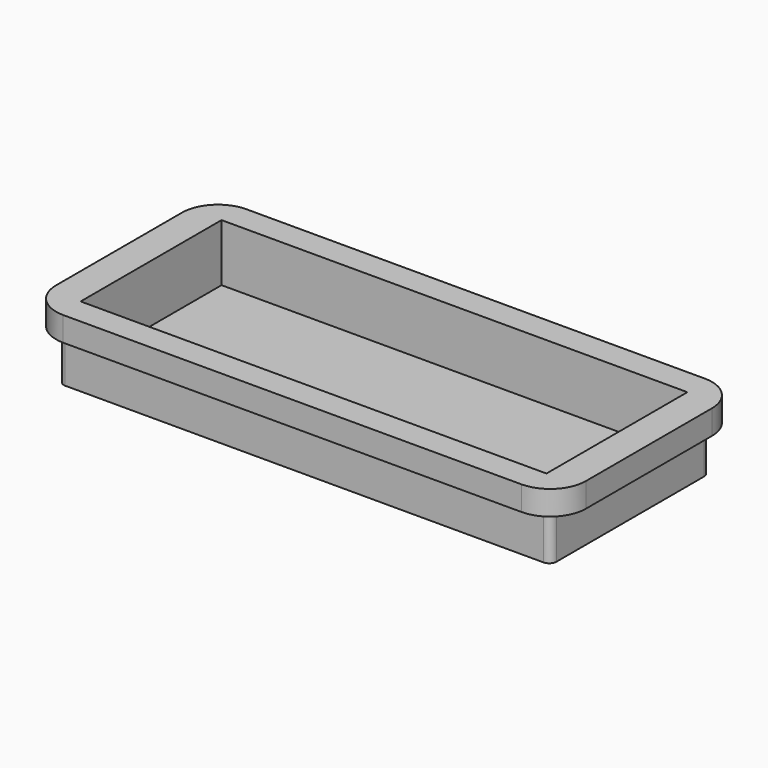
from build123d import *

# Parameters (mm, degrees)
F0_W     = 74
F0_H     = 32
F1_DEPTH = 3.4
F2_W     = 68.8
F2_H     = 27.8
F3_DEPTH = 10
F4_W     = 65.06
F4_H     = 24.6
F5_DEPTH = 8
F6_R     = 5
F7_R     = 1.6
F8_DEPTH = 10.001
F9_R     = 1


with BuildPart() as f1:
    # F0 (on Top) → F1 (new body)
    with BuildSketch(Plane.XY):
        Rectangle(F0_W, F0_H)
    extrude(amount=F1_DEPTH)

    # F2 (on face) → F3 (join)
    with BuildSketch(Plane.XY.offset(3.4)):
        Rectangle(F2_W, F2_H)
    extrude(amount=-F3_DEPTH)

    # F4 (on face) → F5 (cut)
    with BuildSketch(Plane.XY.offset(3.4)):
        Rectangle(F4_W, F4_H)
    extrude(amount=-F5_DEPTH, mode=Mode.SUBTRACT)

    # F6
    f6_edges = [f1.edges().sort_by_distance(p)[0] for p in [
        (-37, -16, 1.7),
        (37, -16, 1.7),
        (37, 16, 1.7),
        (-37, 16, 1.7),
    ]]
    fillet(f6_edges, radius=F6_R)

    # F7 (on face) → F8 (cut, through all)
    with BuildSketch(Plane.XY.offset(3.4)):
        with Locations((-30.004807, -10.013314)):
            Circle(F7_R)
    extrude(amount=-F8_DEPTH, mode=Mode.SUBTRACT)

    # F9
    f9_edges = [f1.edges().sort_by_distance(p)[0] for p in [
        (-34.4, 13.9, -3.3),
        (-34.4, -13.9, -3.3),
        (34.4, -13.9, -3.3),
        (34.4, 13.9, -3.3),
    ]]
    fillet(f9_edges, radius=F9_R)


solid = f1.part
